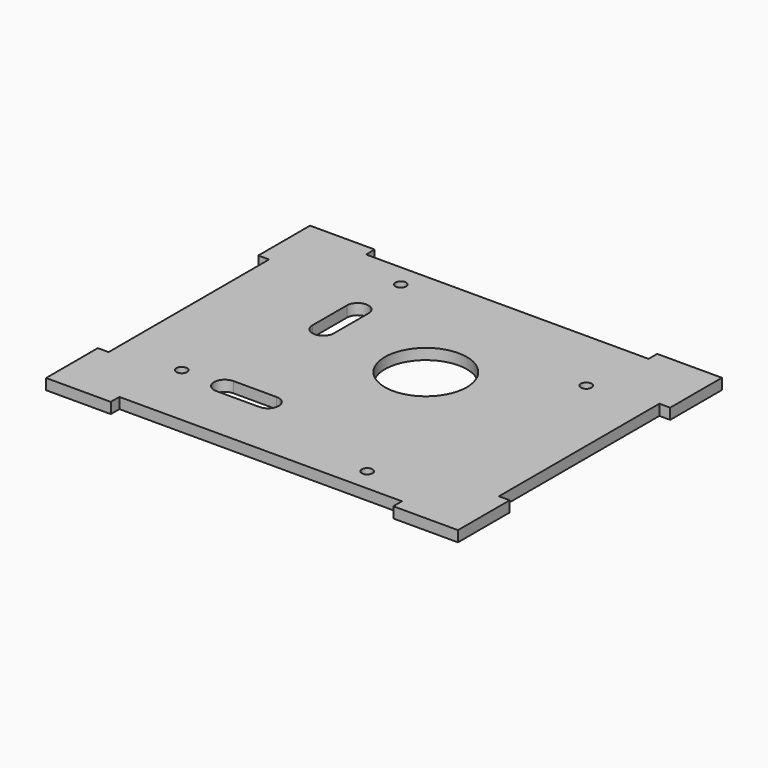
from build123d import *

# Parameters (mm, degrees)
SKETCH_R   = 2.5
SKETCH_R_2 = 19
PAD_DEPTH  = 2.5


with BuildPart() as part:
    # Sketch → Pad (new body, symmetric)
    with BuildSketch(Plane.XY):
        Polygon((65.5, 76.5), (95.5, 76.5), (95.5, 46.5), (90.5, 46.5), (90.5, -46.5), (95.5, -46.5), (95.5, -76.5), (65.5, -76.5), (65.5, -71.5), (-65.5, -71.5), (-65.5, -76.5), (-95.5, -76.5), (-95.5, -46.5), (-90.5, -46.5), (-90.5, 46.5), (-95.5, 46.5), (-95.5, 76.5), (-65.5, 76.5), (-65.5, 71.5), (65.5, 71.5), align=None)
        with Locations((-61, -41)):
            Circle(SKETCH_R, mode=Mode.SUBTRACT)
        with Locations((41, -61)):
            Circle(SKETCH_R, mode=Mode.SUBTRACT)
        with Locations((9, 13)):
            Circle(SKETCH_R_2, mode=Mode.SUBTRACT)
        with Locations((61, 41)):
            Circle(SKETCH_R, mode=Mode.SUBTRACT)
        with Locations((-41, 61)):
            Circle(SKETCH_R, mode=Mode.SUBTRACT)
        with BuildLine():
            ThreePointArc((-36, 36), (-41, 41), (-46, 36))
            Line((-46, 36), (-46, 16))
            ThreePointArc((-46, 16), (-41, 11), (-36, 16))
            Line((-36, 36), (-36, 16))
        make_face(mode=Mode.SUBTRACT)
        with BuildLine():
            ThreePointArc((-41, -36), (-46, -41), (-41, -46))
            Line((-41, -46), (-21, -46))
            ThreePointArc((-21, -46), (-16, -41), (-21, -36))
            Line((-41, -36), (-21, -36))
        make_face(mode=Mode.SUBTRACT)
    extrude(amount=PAD_DEPTH, both=True)


solid = part.part
